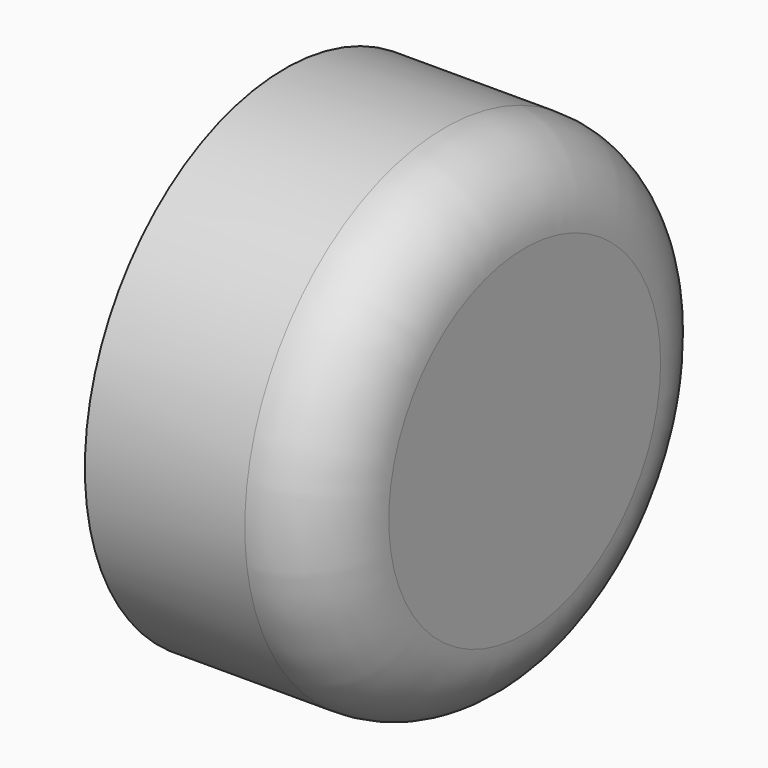
from build123d import *

# Parameters (mm, degrees)
F0_R     = 15.875
F1_DEPTH = 15.24
F2_R     = 5.08


with BuildPart() as f1:
    # F0 (on Right) → F1 (new body)
    with BuildSketch(Plane.YZ):
        Circle(F0_R)
    extrude(amount=F1_DEPTH)

    # F2
    f2_edges = [f1.edges().sort_by_distance(p)[0] for p in [
        (15.24, -15.875, 0),
    ]]
    fillet(f2_edges, radius=F2_R)

    # F3 (on Front) → F4 (revolve, cut)
    with BuildSketch(Plane.XZ):
        with BuildLine():
            Line((0, 12.7), (0, 0))
            Line((0, 0), (12.7, 0))
            Line((12.7, 0), (11.43, 2.199705))
            Line((11.43, 2.199705), (11.43, 11.43))
            ThreePointArc((11.43, 11.43), (11.058026, 12.328026), (10.16, 12.7))
            Line((10.16, 12.7), (0, 12.7))
        make_face()
    revolve(axis=Axis((6.35, 0, 0), (1, 0, 0)), mode=Mode.SUBTRACT)


solid = f1.part
